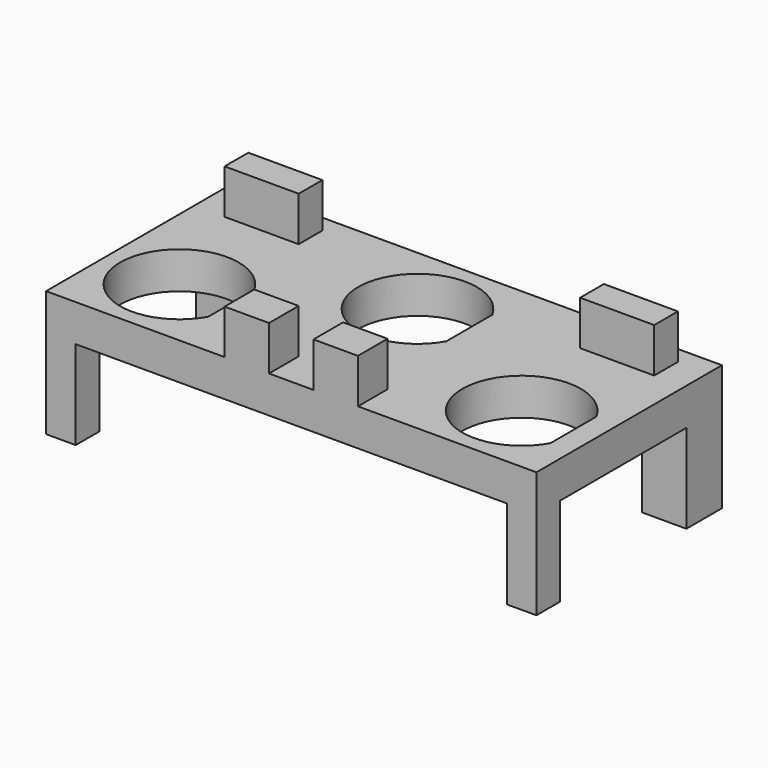
from build123d import *

# Parameters (mm, degrees)
SKETCH_W      = 66.2
SKETCH_H      = 31.3
PAD_DEPTH     = 5
SKETCH001_W   = 10
SKETCH001_H   = 4
SKETCH001_W_2 = 6
SKETCH001_H_2 = 5
PAD001_DEPTH  = 6
SKETCH002_W   = 4
SKETCH002_H   = 4
SKETCH002_W_2 = 6
SKETCH002_H_2 = 6
PAD002_DEPTH  = 12


with BuildPart() as part:
    # Sketch → Pad (new body)
    with BuildSketch(Plane.XY):
        with Locations((0, 15.65)):
            Rectangle(SKETCH_W, SKETCH_H)
        with BuildLine():
            ThreePointArc((-16.1, 13.872983), (-31.1, 10), (-16.1, 6.127017))
            Line((-16.1, 13.872983), (-16.1, 6.127017))
        make_face(mode=Mode.SUBTRACT)
        with BuildLine():
            ThreePointArc((30.1, 13.872983), (15.1, 10), (30.1, 6.127017))
            Line((30.1, 13.872983), (30.1, 6.127017))
        make_face(mode=Mode.SUBTRACT)
        with BuildLine():
            ThreePointArc((7, 25.172983), (-8, 21.3), (7, 17.427017))
            Line((7, 25.172983), (7, 17.427017))
        make_face(mode=Mode.SUBTRACT)
    extrude(amount=PAD_DEPTH)

    # Sketch001 (on Face12 of Pad) → Pad001 (join)
    with BuildSketch(Plane.XY.offset(5)):
        with Locations((24, 27)):
            Rectangle(SKETCH001_W, SKETCH001_H)
        with Locations((6, 2.5)):
            Rectangle(SKETCH001_W_2, SKETCH001_H_2)
    pad001 = extrude(amount=PAD001_DEPTH)

    # Mirrored: Pad001 across Sketch001 V_Axis
    add(pad001.mirror(Plane(origin=(0, 0, 5), x_dir=(0, 0, 1), z_dir=(1, 0, 0))))

    # Sketch002 (on Face3 of Mirrored) → Pad002 (join)
    with BuildSketch(Plane(origin=(0, 0, 0), x_dir=(1, 0, 0), z_dir=(0, 0, -1))):
        with Locations((-31.1, -2)):
            Rectangle(SKETCH002_W, SKETCH002_H)
        with Locations((-30.1, -28.3)):
            Rectangle(SKETCH002_W_2, SKETCH002_H_2)
    pad002 = extrude(amount=PAD002_DEPTH)

    # Mirrored001: Pad002 across Sketch002 V_Axis
    add(pad002.mirror(Plane(origin=(0, 0, 0), x_dir=(0, 0, -1), z_dir=(1, 0, 0))))


solid = part.part
